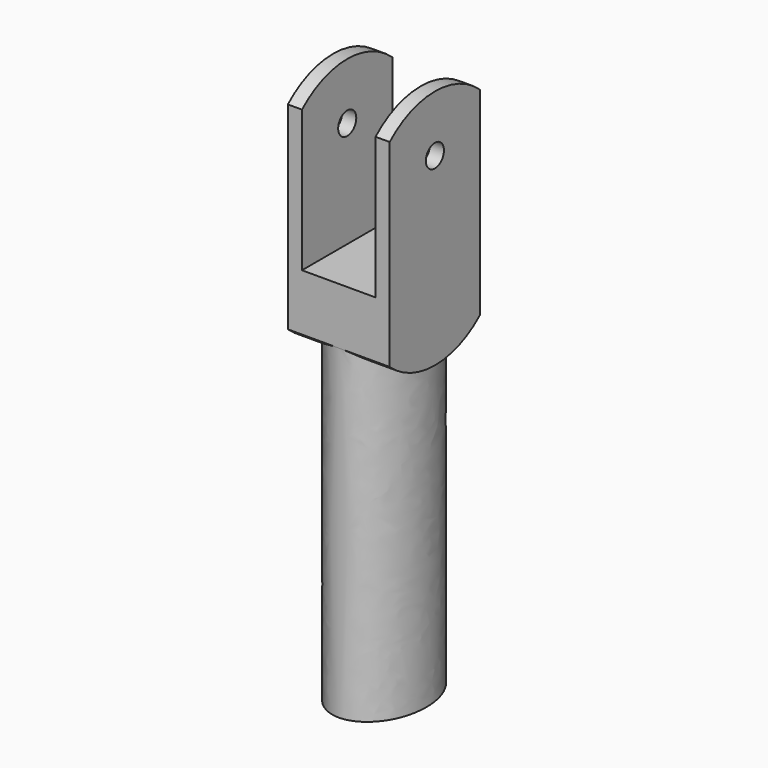
from build123d import *

# Parameters (mm, degrees)
F1_DEPTH      = 75
F2_W          = 20
F2_H          = 35
F3_DEPTH      = 9
F3_DEPTH_BACK = 9
F4_W          = 13
F4_H          = 65
F5_DEPTH      = 25
F5_DEPTH_BACK = 25
F6_R          = 2
F7_DEPTH      = 25


with BuildPart() as f1:
    # F0 (on Top) → F1 (new body)
    with BuildSketch(Plane.XY):
        with BuildLine():
            add(Edge.make_bspline(
                [(0, -10), (12.9903810568, -10), (6.4951905284, 5), (0, 20), (-6.4951905284, 5), (-12.9903810568, -10), (0, -10)],
                knots=[0, 0, 0, 2.0943951024, 2.0943951024, 4.1887902048, 4.1887902048, 6.2831853072, 6.2831853072, 6.2831853072], degree=2, weights=[1, 0.5, 1, 0.5, 1, 0.5, 1]))
        make_face()
    extrude(amount=F1_DEPTH)

    # F2 (on Right) → F3 (join, two sides)
    with BuildSketch(Plane.YZ) as f3_sk:
        with BuildLine():
            ThreePointArc((-10, 57.5), (0, 53.6803398875), (10, 57.5))
            Line((10, 57.5), (-10, 57.5))
        make_face()
        with Locations((0, 75)):
            Rectangle(F2_W, F2_H)
        with BuildLine():
            Line((-10, 92.5), (10, 92.5))
            ThreePointArc((10, 92.5), (0, 96.3196601125), (-10, 92.5))
        make_face()
    extrude(amount=F3_DEPTH)
    extrude(f3_sk.sketch, amount=-F3_DEPTH_BACK)

    # F4 (on Front) → F5 (cut, two sides)
    with BuildSketch(Plane.XZ) as f5_sk:
        with Locations((0, 100)):
            Rectangle(F4_W, F4_H)
    extrude(amount=-F5_DEPTH, mode=Mode.SUBTRACT)
    extrude(f5_sk.sketch, amount=F5_DEPTH_BACK, mode=Mode.SUBTRACT)

    # F6 (on face) → F7 (cut)
    with BuildSketch(Plane.YZ.offset(9)):
        with Locations((0, 86.3196601125)):
            Circle(F6_R)
    extrude(amount=-F7_DEPTH, mode=Mode.SUBTRACT)


solid = f1.part
